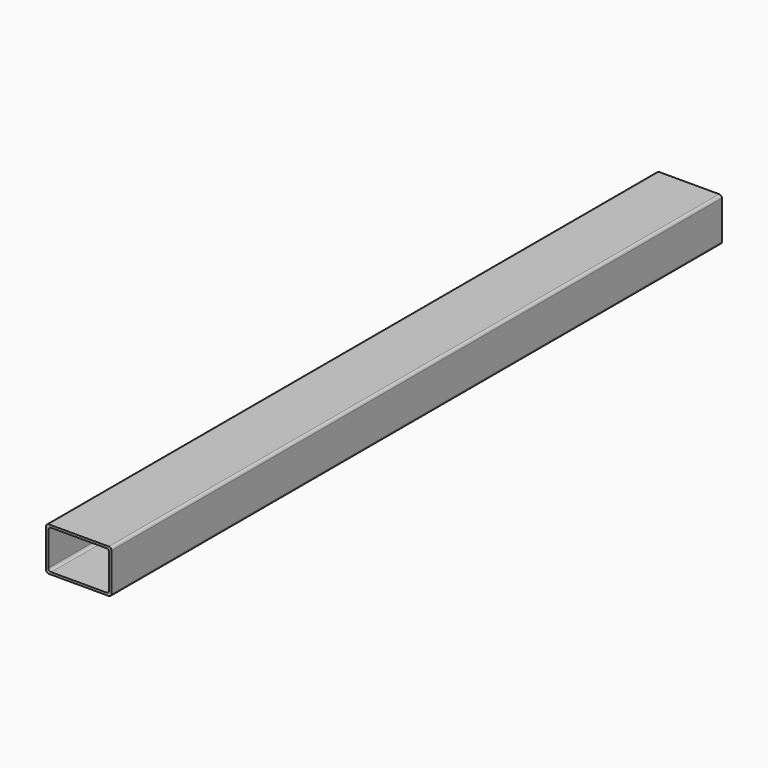
from build123d import *

# Parameters (mm, degrees)
F0_W     = 76.2
F0_H     = 50.8
F0_W_2   = 70.9168
F0_H_2   = 45.5168
F1_DEPTH = 889
F2_R     = 3.175


with BuildPart() as f1:
    # F0 (on Front) → F1 (new body)
    with BuildSketch(Plane.XZ):
        Rectangle(F0_W, F0_H)
        Rectangle(F0_W_2, F0_H_2, mode=Mode.SUBTRACT)
    extrude(amount=F1_DEPTH)

    # F2
    f2_edges = [f1.edges().sort_by_distance(p)[0] for p in [
        (38.1, -444.5, 25.4),
        (-38.1, -444.5, 25.4),
        (-35.4584, -444.5, -22.7584),
        (38.1, -444.5, -25.4),
        (-38.1, -444.5, -25.4),
        (35.4584, -444.5, 22.7584),
        (35.4584, -444.5, -22.7584),
        (-35.4584, -444.5, 22.7584),
    ]]
    fillet(f2_edges, radius=F2_R)


solid = f1.part
